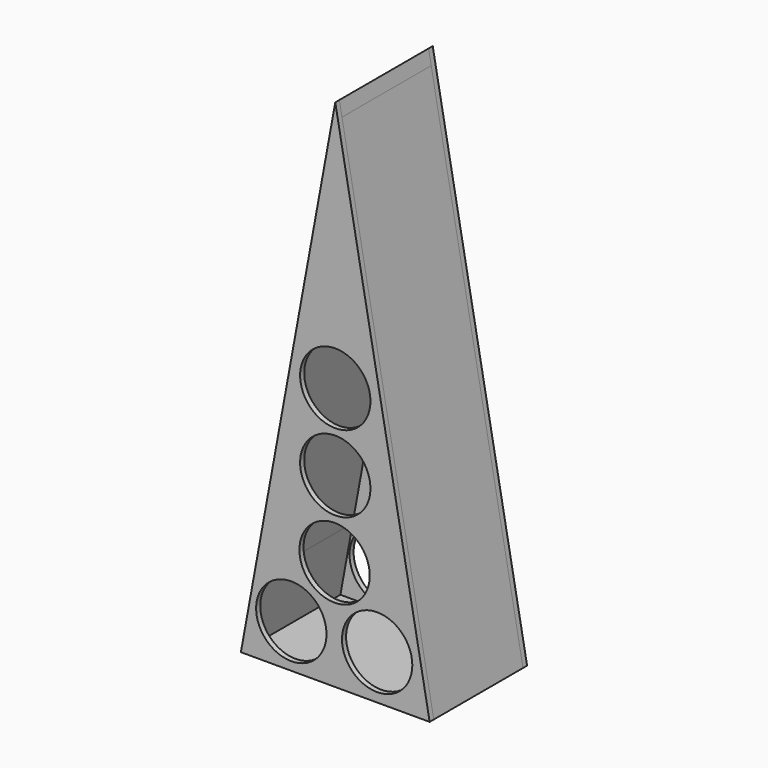
from build123d import *

# Parameters (mm, degrees)
F1_DEPTH  = 6
F3_DEPTH  = 130
F5_DEPTH  = 130
F7_DEPTH  = 130
F9_DEPTH  = 6
F10_R     = 41
F11_DEPTH = 309.88


with BuildPart() as f1:
    # F0 (on Front) → F1 (new body)
    with BuildSketch(Plane.XZ):
        Polygon((-110, 0), (0, 0), (110, 0), (0, 600), align=None)
    extrude(amount=F1_DEPTH)

    # F2 (on face) → F3 (join)
    with BuildSketch(Plane(origin=(0, 0, 0), x_dir=(-1, 0, 0), z_dir=(0, 1, 0))):
        Polygon((110, 0), (106.467944, 19.265758), (0, 600), (-3.05, 583.363636), (0, 566.727273), (88.482445, 84.095757), (103.9, 0), align=None)
    extrude(amount=F3_DEPTH)

    # F4 (on face) → F5 (join)
    with BuildSketch(Plane(origin=(0, 0, 0), x_dir=(-1, 0, 0), z_dir=(0, 1, 0))):
        Polygon((0, 566.727273), (-3.05, 583.363636), (-110, 0), (-103.9, 0), (-101.40299, 13.620052), align=None)
    extrude(amount=F5_DEPTH)

    # F6 (on face) → F7 (join)
    with BuildSketch(Plane(origin=(0, 0, 0), x_dir=(-1, 0, 0), z_dir=(0, 1, 0))):
        Polygon((-102.8, 6), (-103.9, 0), (103.9, 0), (102.8, 6), (94.243981, 6), (-89.78457, 6), align=None)
    extrude(amount=F7_DEPTH)

    # F8 (on face) → F9 (join)
    with BuildSketch(Plane(origin=(0, 130, 0), x_dir=(-1, 0, 0), z_dir=(0, 1, 0))):
        Polygon((110, 0), (0, 600), (-110, 0), align=None)
    extrude(amount=F9_DEPTH)

    # F10 (on face) → F11 (cut)
    with BuildSketch(Plane.XZ.offset(6)):
        with Locations((48.797943, 51.662218)):
            Circle(F10_R)
        with Locations((-51.237836, 50.848916)):
            Circle(F10_R)
        with Locations((-0.8133, 127.299026)):
            Circle(F10_R)
        with Locations((0, 217.074677)):
            Circle(F10_R)
        with Locations((0, 306.537598)):
            Circle(F10_R)
    extrude(amount=-F11_DEPTH, mode=Mode.SUBTRACT)


solid = f1.part
